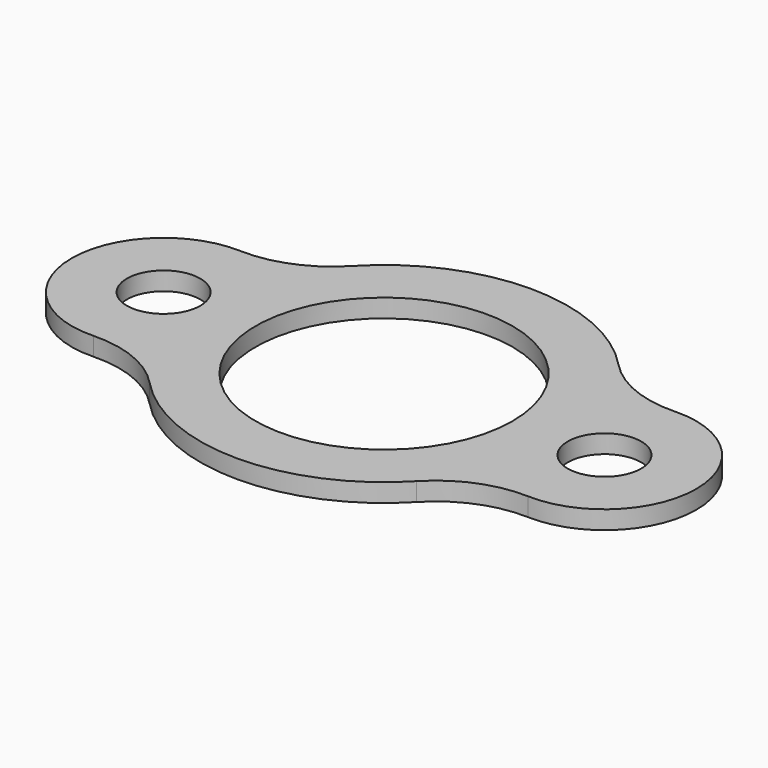
from build123d import *

# Parameters (mm, degrees)
F0_R     = 12.7
F1_DEPTH = 6.35


with BuildPart() as f1:
    # F0 (on Top) → F1 (new body)
    with BuildSketch(Plane.XY):
        with BuildLine():
            ThreePointArc((-75.109461, -31.75), (-59.338862, -34.579288), (-46.12599, -43.642216))
            ThreePointArc((-46.12599, -43.642216), (0.007806, -63.5), (46.136719, -43.630874))
            ThreePointArc((46.136719, -43.630874), (59.347524, -34.564632), (75.117614, -31.731545))
            ThreePointArc((75.117614, -31.731545), (107.95, 0), (75.117614, 31.731545))
            ThreePointArc((75.117614, 31.731545), (59.347524, 34.564632), (46.136719, 43.630874))
            ThreePointArc((46.136719, 43.630874), (0.007806, 63.5), (-46.12599, 43.642216))
            ThreePointArc((-46.12599, 43.642216), (-59.338862, 34.579288), (-75.109461, 31.75))
            ThreePointArc((-75.109461, 31.75), (-107.968723, 0), (-75.109461, -31.75))
        make_face()
        with Locations((-76.2, 0)):
            Circle(F0_R, mode=Mode.SUBTRACT)
        with BuildLine():
            ThreePointArc((-44.45, 0), (0, 44.45), (44.45, 0))
            ThreePointArc((44.45, 0), (0, -44.45), (-44.45, 0))
        make_face(mode=Mode.SUBTRACT)
        with BuildLine():
            ThreePointArc((88.9, 0), (76.2, -12.7), (63.5, 0))
            ThreePointArc((63.5, 0), (76.2, 12.7), (88.9, 0))
        make_face(mode=Mode.SUBTRACT)
    extrude(amount=F1_DEPTH)


solid = f1.part
